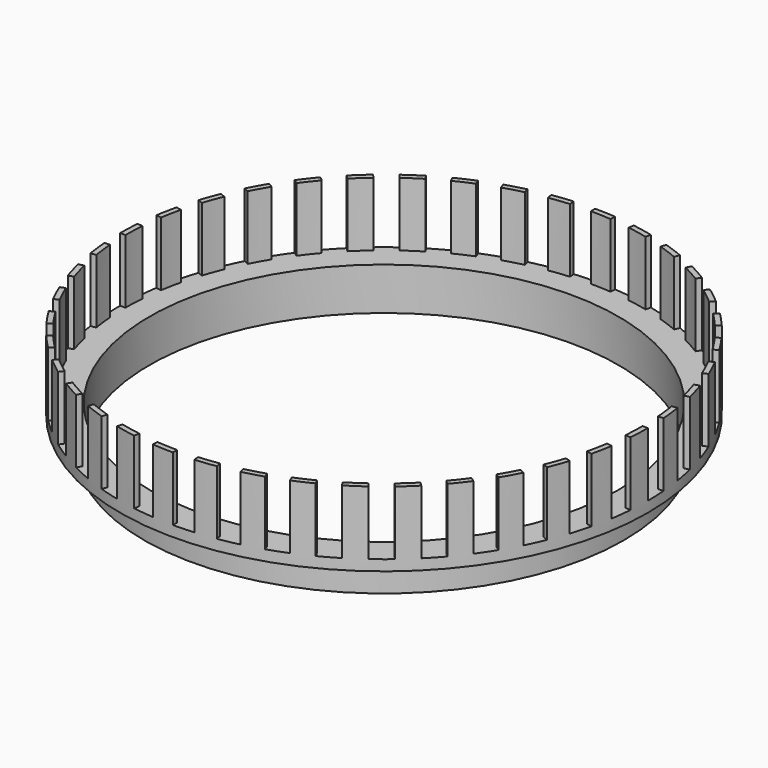
from build123d import *

# Parameters (mm, degrees)
SKETCH_R           = 22.5
SKETCH_R_2         = 22
PAD_DEPTH          = 3
SKETCH001_R        = 24.75
SKETCH001_R_2      = 22
PAD001_DEPTH       = 1
SKETCH002_R        = 24.75
SKETCH002_R_2      = 24.25
PAD002_DEPTH       = 6
POCKET_DEPTH       = 6
POLARPATTERN_COUNT = 40


with BuildPart() as part:
    # Sketch → Pad (new body)
    with BuildSketch(Plane.XY):
        Circle(SKETCH_R)
        Circle(SKETCH_R_2, mode=Mode.SUBTRACT)
    extrude(amount=PAD_DEPTH)

    # Sketch001 (on Face4 of Pad) → Pad001 (join)
    with BuildSketch(Plane.XY.offset(3)):
        Circle(SKETCH001_R)
        Circle(SKETCH001_R_2, mode=Mode.SUBTRACT)
    extrude(amount=PAD001_DEPTH)

    # Sketch002 (on Face5 of Pad001) → Pad002 (join)
    with BuildSketch(Plane.XY.offset(4)):
        Circle(SKETCH002_R)
        Circle(SKETCH002_R_2, mode=Mode.SUBTRACT)
    extrude(amount=PAD002_DEPTH)

    # Sketch003 (on Face7 of Pad002) → Pocket (cut)
    with BuildSketch(Plane.XY.offset(10)):
        with BuildLine():
            ThreePointArc((20.687132, 0), (20.671183, 0.812175), (20.62336, 1.623097))
            Line((20.62336, 1.623097), (25.593958, 2.014293))
            ThreePointArc((25.6731, 0), (25.653307, 1.007924), (25.593958, 2.014293))
            Line((20.687132, 0), (25.6731, 0))
        make_face()
    pocket = extrude(amount=-POCKET_DEPTH, mode=Mode.SUBTRACT)

    # PolarPattern: Pocket ×40 about axis
    polarpattern_axis = Axis((0, 0, 10), (0, 0, 1))
    for i in range(1, POLARPATTERN_COUNT):
        add(pocket.rotate(polarpattern_axis, i * 360 / POLARPATTERN_COUNT), mode=Mode.SUBTRACT)


solid = part.part
